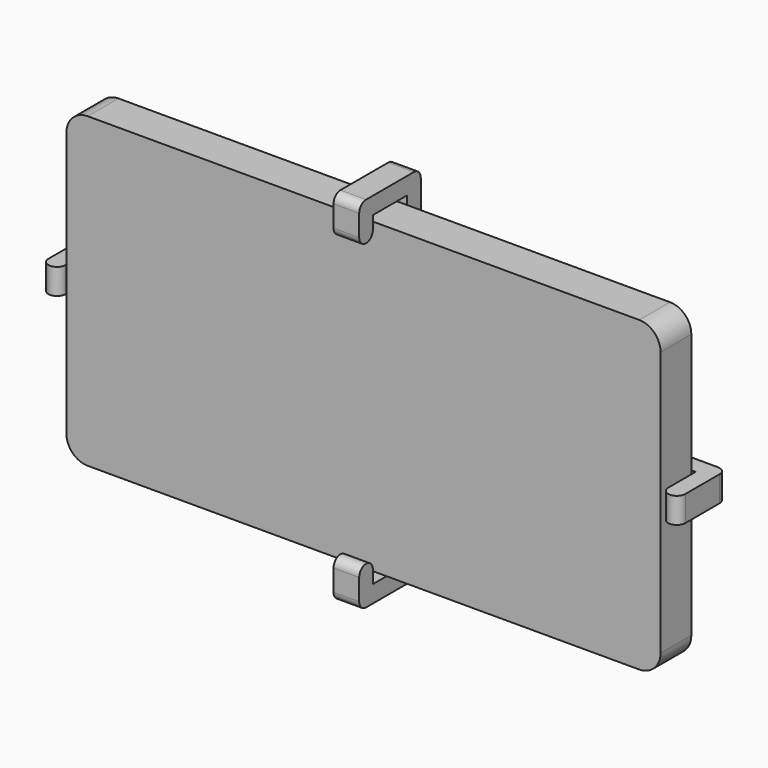
from build123d import *

# Parameters (mm, degrees)
F0_W     = 139
F0_H     = 72
F1_DEPTH = 9
F2_R     = 5
F4_DEPTH = 3
F6_DEPTH = 3


with BuildPart() as f1:
    # F0 (on Front) → F1 (new body)
    with BuildSketch(Plane.XZ):
        Rectangle(F0_W, F0_H)
    extrude(amount=F1_DEPTH)

    # F2
    f2_edges = [f1.edges().sort_by_distance(p)[0] for p in [
        (-69.5, -4.5, 36),
        (69.5, -4.5, 36),
        (69.5, -4.5, -36),
        (-69.5, -4.5, -36),
    ]]
    fillet(f2_edges, radius=F2_R)


with BuildPart() as f4:
    # F3 (on Top) → F4 (new body, symmetric)
    with BuildSketch(Plane.XY):
        with BuildLine():
            Line((-54.5, 4), (-72.5, 4))
            ThreePointArc((-72.5, 4), (-73.9142135624, 3.4142135624), (-74.5, 2))
            Line((-74.5, 2), (-74.5, 0))
            Line((-74.5, 0), (-70.5, 0))
            Line((-70.5, 0), (-3, 0))
            Line((-3, 0), (-3, 4))
            Line((-3, 4), (-13.5, 4))
            Line((-13.5, 4), (-13.5, 3.5))
            Line((-13.5, 3.5), (-23.5, 3.5))
            Line((-23.5, 3.5), (-23.5, 4))
            Line((-23.5, 4), (-33.5, 4))
            Line((-33.5, 4), (-33.5, 3.5))
            Line((-33.5, 3.5), (-43.5, 3.5))
            Line((-43.5, 3.5), (-43.5, 4))
            Line((-43.5, 4), (-54.5, 4))
        make_face()
        with BuildLine():
            Line((3, 4), (3, 0))
            Line((3, 0), (70.5, 0))
            Line((70.5, 0), (74.5, 0))
            Line((74.5, 0), (74.5, 2))
            ThreePointArc((74.5, 2), (73.9142135624, 3.4142135624), (72.5, 4))
            Line((72.5, 4), (54.5, 4))
            Line((54.5, 4), (43.5, 4))
            Line((43.5, 4), (43.5, 3.5))
            Line((43.5, 3.5), (33.5, 3.5))
            Line((33.5, 3.5), (33.5, 4))
            Line((33.5, 4), (23.5, 4))
            Line((23.5, 4), (23.5, 3.5))
            Line((23.5, 3.5), (13.5, 3.5))
            Line((13.5, 3.5), (13.5, 4))
            Line((13.5, 4), (3, 4))
        make_face()
        with BuildLine():
            Line((-70.5, 0), (-74.5, 0))
            Line((-74.5, 0), (-74.5, -8))
            ThreePointArc((-74.5, -8), (-73.9142135624, -9.4142135624), (-72.5, -10))
            ThreePointArc((-72.5, -10), (-71.0857864376, -9.4142135624), (-70.5, -8))
            Line((-70.5, -8), (-70.5, 0))
        make_face()
        with BuildLine():
            Line((74.5, 0), (70.5, 0))
            Line((70.5, 0), (70.5, -8))
            ThreePointArc((70.5, -8), (71.0857864376, -9.4142135624), (72.5, -10))
            ThreePointArc((72.5, -10), (73.9142135624, -9.4142135624), (74.5, -8))
            Line((74.5, -8), (74.5, 0))
        make_face()
        with BuildLine():
            Line((47.6715728753, 10), (0, 10))
            Line((0, 10), (0, 4))
            Line((0, 4), (3, 4))
            Line((3, 4), (13.5, 4))
            Line((13.5, 4), (13.5, 6.5))
            Line((13.5, 6.5), (23.5, 6.5))
            Line((23.5, 6.5), (23.5, 4))
            Line((23.5, 4), (33.5, 4))
            Line((33.5, 4), (33.5, 6.5))
            Line((33.5, 6.5), (43.5, 6.5))
            Line((43.5, 6.5), (43.5, 4))
            Line((43.5, 4), (54.5, 4))
            Line((54.5, 4), (49.0857864376, 9.4142135624))
            ThreePointArc((49.0857864376, 9.4142135624), (48.43693974, 9.847759065), (47.6715728753, 10))
        make_face()
        with BuildLine():
            Line((-49.0857864376, 9.4142135624), (-54.5, 4))
            Line((-54.5, 4), (-43.5, 4))
            Line((-43.5, 4), (-43.5, 6.5))
            Line((-43.5, 6.5), (-33.5, 6.5))
            Line((-33.5, 6.5), (-33.5, 4))
            Line((-33.5, 4), (-23.5, 4))
            Line((-23.5, 4), (-23.5, 6.5))
            Line((-23.5, 6.5), (-13.5, 6.5))
            Line((-13.5, 6.5), (-13.5, 4))
            Line((-13.5, 4), (-3, 4))
            Line((-3, 4), (0, 4))
            Line((0, 4), (0, 10))
            Line((0, 10), (-47.6715728753, 10))
            ThreePointArc((-47.6715728753, 10), (-48.43693974, 9.847759065), (-49.0857864376, 9.4142135624))
        make_face()
    extrude(amount=F4_DEPTH, both=True)


with BuildPart() as f6:
    # F5 (on Right) → F6 (new body, symmetric)
    with BuildSketch(Plane.YZ):
        Polygon((4, 11), (4, 3), (8, 3), (8, 7), align=None)
        with BuildLine():
            Line((-10, 38), (0, 38))
            Line((0, 38), (0, 0))
            Line((0, 0), (4, 0))
            Line((4, 0), (4, 3))
            Line((4, 3), (4, 11))
            Line((4, 11), (4, 40))
            ThreePointArc((4, 40), (3.4142135624, 41.4142135624), (2, 42))
            Line((2, 42), (-12, 42))
            ThreePointArc((-12, 42), (-13.4142135624, 41.4142135624), (-14, 40))
            Line((-14, 40), (-14, 35))
            ThreePointArc((-14, 35), (-13.4142135624, 33.5857864376), (-12, 33))
            ThreePointArc((-12, 33), (-10.5857864376, 33.5857864376), (-10, 35))
            Line((-10, 35), (-10, 38))
        make_face()
        with BuildLine():
            Line((4, 0), (0, 0))
            Line((0, 0), (0, -38))
            Line((0, -38), (-10, -38))
            Line((-10, -38), (-10, -35))
            ThreePointArc((-10, -35), (-10.5857864376, -33.5857864376), (-12, -33))
            ThreePointArc((-12, -33), (-13.4142135624, -33.5857864376), (-14, -35))
            Line((-14, -35), (-14, -40))
            ThreePointArc((-14, -40), (-13.4142135624, -41.4142135624), (-12, -42))
            Line((-12, -42), (2, -42))
            ThreePointArc((2, -42), (3.4142135624, -41.4142135624), (4, -40))
            Line((4, -40), (4, -11))
            Line((4, -11), (4, -3))
            Line((4, -3), (4, 0))
        make_face()
        Polygon((8, -3), (4, -3), (4, -11), (8, -7), align=None)
    extrude(amount=F6_DEPTH, both=True)


solid = Compound([f1.part, f4.part, f6.part])
